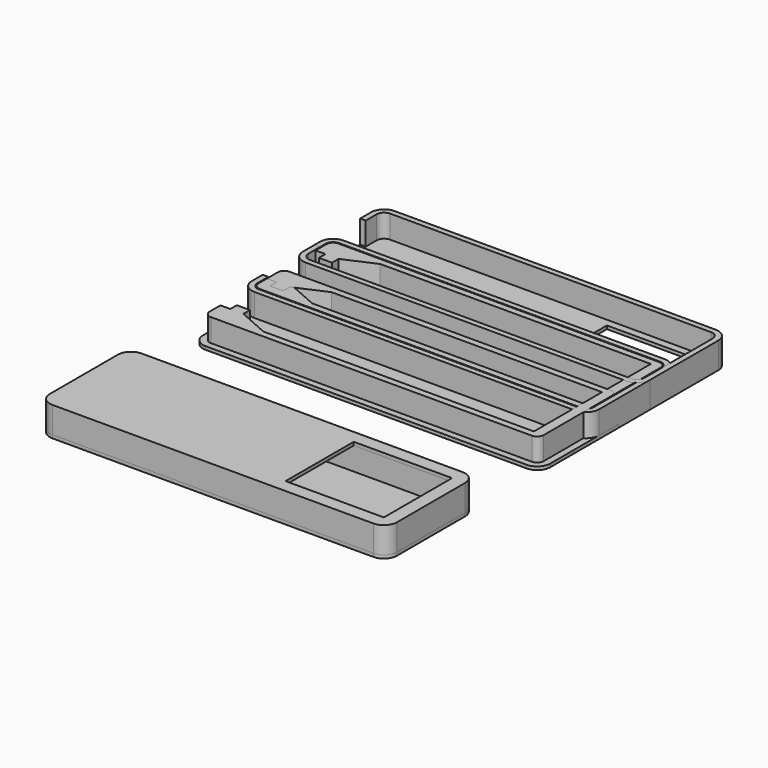
from build123d import *

# Parameters (mm, degrees)
PAD_DEPTH                = 8
SKETCH_W                 = 114
SKETCH_H                 = 42
POCKET_DEPTH             = 7
POCKET001_DEPTH          = 7
PAD001_DEPTH             = 8
POCKET002_DEPTH          = 7
SKETCH005_W              = 5
SKETCH005_H              = 17.7
POCKET003_DEPTH          = 7
SKETCH006_W              = 30
SKETCH006_H              = 26
POCKET004_DEPTH          = 1.001
CLONE003_PLACEMENT_ANGLE = 180


with BuildPart() as bottom_box:
    # Sketch001 → Pad (new body)
    with BuildSketch(Plane.XY):
        with BuildLine():
            Line((-53, -13), (-53, 13))
            ThreePointArc((-49, 17), (-51.828427, 15.828427), (-53, 13))
            Line((49, 17), (-49, 17))
            ThreePointArc((53, 13), (51.828427, 15.828427), (49, 17))
            Line((53, -13), (53, 13))
            ThreePointArc((49, -17), (51.828427, -15.828427), (53, -13))
            Line((-49, -17), (49, -17))
            ThreePointArc((-53, -13), (-51.828427, -15.828427), (-49, -17))
        make_face()
    extrude(amount=PAD_DEPTH)

    # Sketch → Pocket (cut)
    with BuildSketch(Plane.XY.offset(8)):
        Rectangle(SKETCH_W, SKETCH_H)
        with BuildLine():
            Line((-49, 15), (49, 15))
            ThreePointArc((51, 13), (50.414214, 14.414214), (49, 15))
            Line((51, 13), (51, -13))
            ThreePointArc((49, -15), (50.414214, -14.414214), (51, -13))
            Line((49, -15), (-49, -15))
            ThreePointArc((-51, -13), (-50.414214, -14.414214), (-49, -15))
            Line((-51, -13), (-51, 13))
            ThreePointArc((-49, 15), (-50.414214, 14.414214), (-51, 13))
        make_face(mode=Mode.SUBTRACT)
    extrude(amount=-POCKET_DEPTH, mode=Mode.SUBTRACT)

    # Sketch002 → Pocket001 (cut)
    with BuildSketch(Plane.XY.offset(8)):
        Polygon((-34.6, 13), (48, 13), (48, -13), (-34.6, -13), (-44, -8.85), (-44, -6.35), (-48, -6.35), (-48, -8.85), (-53, -8.85), (-58, -8.85), (-58, 8.85), (-53, 8.85), (-48, 8.85), (-48, 6.35), (-44, 6.35), (-44, 8.85), align=None)
    extrude(amount=-POCKET001_DEPTH, mode=Mode.SUBTRACT)


with BuildPart() as top_box:
    # Sketch003 → Pad001 (new body)
    with BuildSketch(Plane.XY):
        with BuildLine():
            Line((-53, -13), (-53, 13))
            ThreePointArc((-49, 17), (-51.828427, 15.828427), (-53, 13))
            Line((49, 17), (-49, 17))
            ThreePointArc((53, 13), (51.828427, 15.828427), (49, 17))
            Line((53, -13), (53, 13))
            ThreePointArc((49, -17), (51.828427, -15.828427), (53, -13))
            Line((-49, -17), (49, -17))
            ThreePointArc((-53, -13), (-51.828427, -15.828427), (-49, -17))
        make_face()
    extrude(amount=PAD001_DEPTH)

    # Sketch004 → Pocket002 (cut)
    with BuildSketch(Plane.XY.offset(8)):
        with BuildLine():
            Line((-49, 15.3), (49, 15.3))
            ThreePointArc((51.3, 13), (50.626346, 14.626346), (49, 15.3))
            Line((51.3, 13), (51.3, -13))
            ThreePointArc((49, -15.3), (50.626346, -14.626346), (51.3, -13))
            Line((49, -15.3), (-49, -15.3))
            ThreePointArc((-51.3, -13), (-50.626346, -14.626346), (-49, -15.3))
            Line((-51.3, -13), (-51.3, 13))
            ThreePointArc((-49, 15.3), (-50.626346, 14.626346), (-51.3, 13))
        make_face()
    extrude(amount=-POCKET002_DEPTH, mode=Mode.SUBTRACT)

    # Sketch005 → Pocket003 (cut)
    with BuildSketch(Plane.XY.offset(8)):
        with Locations((-52.5, 0)):
            Rectangle(SKETCH005_W, SKETCH005_H)
    extrude(amount=-POCKET003_DEPTH, mode=Mode.SUBTRACT)

    # Sketch006 → Pocket004 (cut, through all)
    with BuildSketch(Plane.XY.offset(1)):
        with Locations((34, 0)):
            Rectangle(SKETCH006_W, SKETCH006_H)
    extrude(amount=-POCKET004_DEPTH, mode=Mode.SUBTRACT)


with BuildPart() as bottom_part_clone:
    # Clone base: copy of bottom-box
    add(bottom_box.part)


with BuildPart() as bottom_part_clone_1:
    # Clone placement: moved
    add(bottom_part_clone.part.moved(Location((0, -18.61824, 0))))


with BuildPart() as top_part_clone:
    # Clone001 base: copy of top-box
    add(top_box.part)


with BuildPart() as top_part_clone_1:
    # Clone001 placement: moved
    add(top_part_clone.part.moved(Location((0, 19.483101, 0))))


with BuildPart() as bottom_part_clone2:
    # Clone002 base: copy of bottom-box
    add(bottom_box.part)


with BuildPart() as bottom_part_clone2_1:
    # Clone002 placement: moved
    add(bottom_part_clone2.part.moved(Location((0, -77.113558, 0))))


with BuildPart() as top_part_clone2:
    # Clone003 base: copy of top-box
    add(top_box.part)


with BuildPart() as top_part_clone2_1:
    # Clone003 placement: moved
    add(top_part_clone2.part.moved(Location((0, -77.113558, 9))).rotate(Axis((0, -77.113558, 9), (1, 0, 0)), CLONE003_PLACEMENT_ANGLE))


solid = Compound([bottom_box.part, top_box.part, bottom_part_clone_1.part, top_part_clone_1.part, bottom_part_clone2_1.part, top_part_clone2_1.part])
